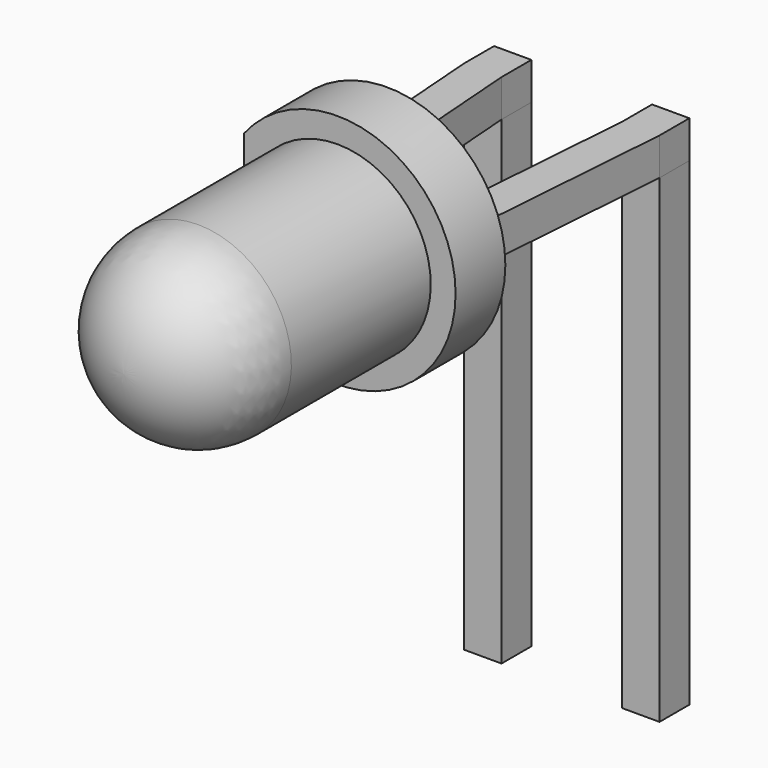
from build123d import *

# Parameters (mm, degrees)
SKETCH_W       = 0.6
SKETCH_H       = 0.6
PAD_DEPTH      = 5.7
PAD_DEPTH_BACK = 2
PAD001_DEPTH   = 0.6
SKETCH002_W    = 2.54
SKETCH002_H    = 0.6
PAD002_DEPTH   = 1
SKETCH004_R    = 1.9
SKETCH004_R_2  = 1.5
PAD003_DEPTH   = 1
SKETCH006_W    = 0.4
SKETCH006_H    = 3.8
POCKET_DEPTH   = 1.001


with BuildPart() as pad:
    # Sketch → Pad (new body, two sides)
    with BuildSketch(Plane.XY) as pad_sk:
        Rectangle(SKETCH_W, SKETCH_H)
        with Locations((2.54, 0)):
            Rectangle(SKETCH_W, SKETCH_H)
    extrude(amount=PAD_DEPTH)
    extrude(pad_sk.sketch, amount=-PAD_DEPTH_BACK)


with BuildPart() as pad001:
    # Sketch001 → Pad001 (new body)
    with BuildSketch(Plane.XY.offset(5.7)):
        Polygon((0.3, 0.3), (-0.3, 0.3), (-0.3, -0.3), (0, -4.31), (0.6, -4.31), (0.3, -0.3), align=None)
        Polygon((2.84, 0.3), (2.24, 0.3), (2.24, -0.3), (1.94, -4.31), (2.54, -4.31), (2.84, -0.3), align=None)
    extrude(amount=PAD001_DEPTH)


with BuildPart() as pad002:
    # Sketch002 → Pad002 (new body)
    with BuildSketch(Plane.XZ.offset(4.31)):
        with Locations((1.27, 6)):
            Rectangle(SKETCH002_W, SKETCH002_H)
    extrude(amount=PAD002_DEPTH)


with BuildPart() as revolution:
    # Sketch003 → Revolution (revolve)
    with BuildSketch(Plane.YZ.offset(1.27)):
        with BuildLine():
            Line((-3.81, 6), (-9.11, 6))
            ThreePointArc((-7.61, 7.5), (-8.67066, 7.06066), (-9.11, 6))
            Line((-3.81, 7.5), (-7.61, 7.5))
            Line((-3.81, 6), (-3.81, 7.5))
        make_face()
    revolve(axis=Axis((1.27, -5.810397, 6), (0, -1, 0)))


with BuildPart() as revolution001:
    # Sketch005 → Revolution001 (revolve)
    with BuildSketch(Plane.YZ.offset(1.27)):
        Polygon((-5.01, 6), (-5.51, 6), (-5.51, 6.5), align=None)
    revolve(axis=Axis((1.27, -3.977201, 6), (0, -1, 0)))


with BuildPart() as pocket:
    # Sketch004 → Pad003 (new body)
    with BuildSketch(Plane.XZ.offset(3.81)):
        with Locations((1.27, 6)):
            Circle(SKETCH004_R)
        with Locations((1.27, 6)):
            Circle(SKETCH004_R_2, mode=Mode.SUBTRACT)
    extrude(amount=PAD003_DEPTH)

    # Sketch006 → Pocket (cut, through all)
    with BuildSketch(Plane.XZ.offset(4.81)):
        with Locations((-0.43, 6)):
            Rectangle(SKETCH006_W, SKETCH006_H)
    extrude(amount=-POCKET_DEPTH, mode=Mode.SUBTRACT)


solid = Compound([pad.part, pad001.part, pad002.part, revolution.part, revolution001.part, pocket.part])
